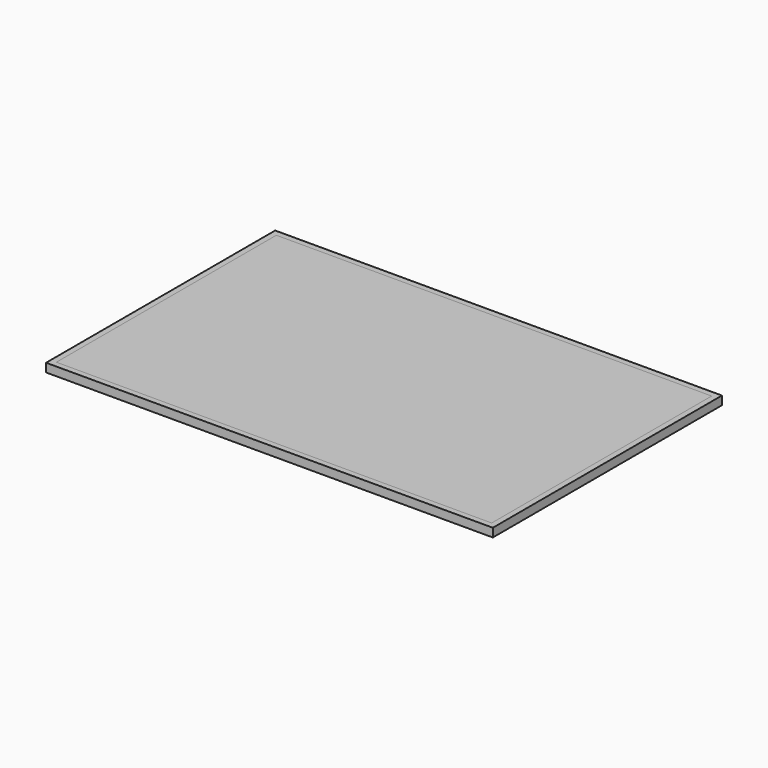
from build123d import *

# Parameters (mm, degrees)
F0_W     = 965.2
F0_H     = 609.6
F1_DEPTH = 4.7625
F2_W     = 12.7
F2_H     = 9.525


with BuildPart() as f1:
    # F0 (on Top) → F1 (new body, symmetric)
    with BuildSketch(Plane.XY):
        Rectangle(F0_W, F0_H)
    extrude(amount=F1_DEPTH, both=True)


with BuildPart() as f3:
    # F3: sweep along a path in F3_path
    with BuildLine(Plane(origin=(482.6, -304.8, 4.7625), x_dir=(0, -1, 0), z_dir=(0, 0, -1))) as f3_path:
        Line((0, 0), (-609.6, 0))
        Line((-609.6, 0), (-609.6, 965.2))
        Line((-609.6, 965.2), (0, 965.2))
        Line((0, 965.2), (0, 0))
    # F2 (on Front) → F3 (sweep)
    with BuildSketch(Plane.XZ):
        Polygon((482.6, 4.7625), (482.6, -4.7625), (482.6, -14.2875), (495.3, -14.2875), (495.3, 4.7625), align=None)
        with Locations((476.25, -9.525)):
            Rectangle(F2_W, F2_H)
    sweep(path=f3_path.line, transition=Transition.RIGHT)


solid = Compound([f1.part, f3.part])
